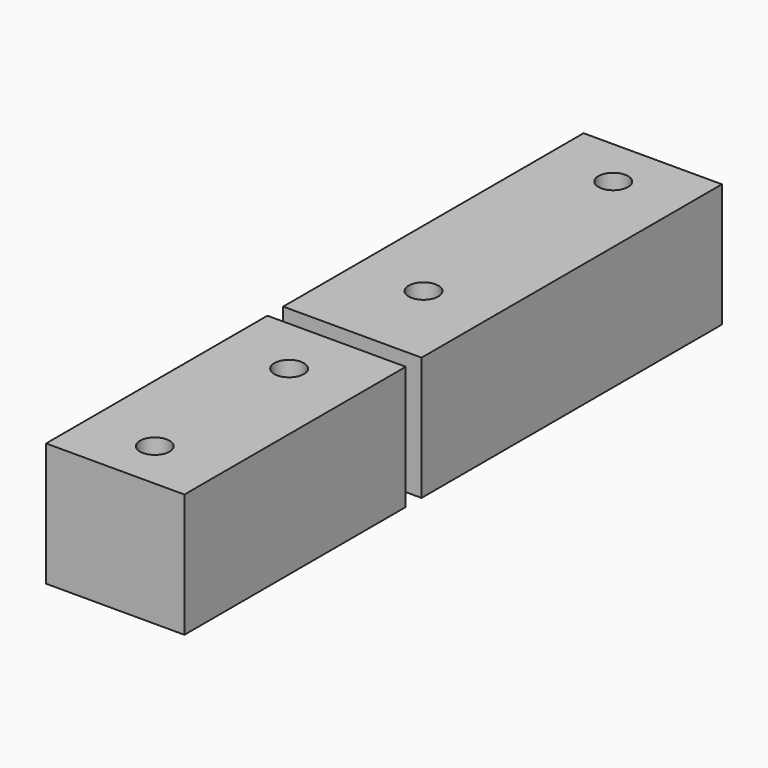
from build123d import *

# Parameters (mm, degrees)
F0_W     = 14
F0_H     = 28
F0_R     = 1.5
F0_H_2   = 38
F1_DEPTH = 12.5


with BuildPart() as f1:
    # F0 (on Top) → F1 (new body)
    with BuildSketch(Plane.XY):
        with Locations((7, 14)):
            Rectangle(F0_W, F0_H)
        with Locations((7, 5)):
            Circle(F0_R, mode=Mode.SUBTRACT)
        with Locations((7, 22)):
            Circle(F0_R, mode=Mode.SUBTRACT)
        with Locations((7, 49)):
            Rectangle(F0_W, F0_H_2)
        with Locations((7, 39)):
            Circle(F0_R, mode=Mode.SUBTRACT)
        with Locations((7, 63)):
            Circle(F0_R, mode=Mode.SUBTRACT)
    extrude(amount=F1_DEPTH)


solid = f1.part
